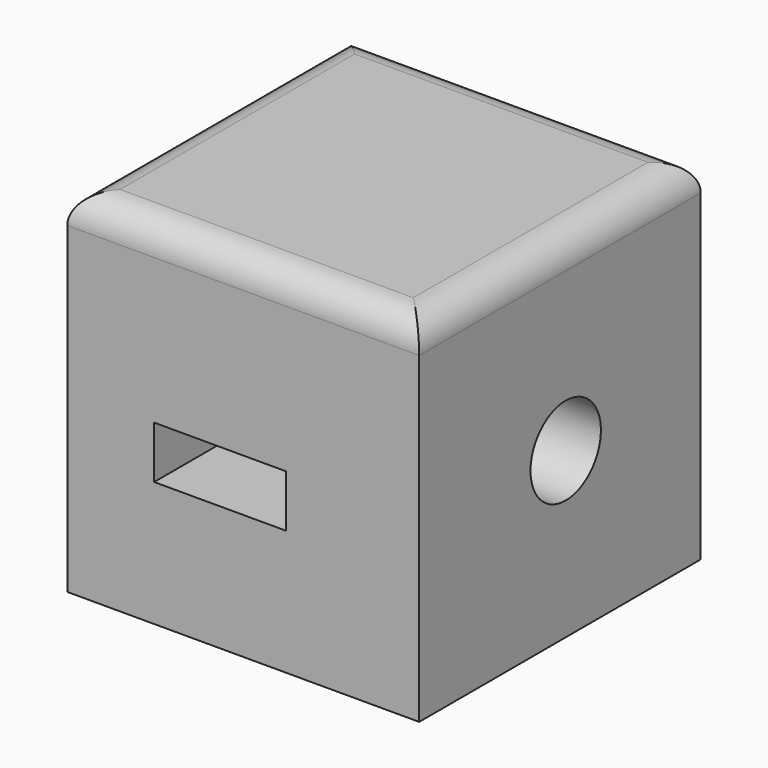
from build123d import *

# Parameters (mm, degrees)
F0_W     = 152.4
F0_H     = 152.4
F1_DEPTH = 152.4
F2_R     = 12.7
F4_D     = 38.1
F5_W     = 57.1246
F5_H     = 22.6568
F6_DEPTH = 152.401


with BuildPart() as f1:
    # F0 (on Front) → F1 (new body)
    with BuildSketch(Plane.XZ):
        with Locations((76.2, 76.2)):
            Rectangle(F0_W, F0_H)
    extrude(amount=F1_DEPTH)

    # F2
    f2_edges = [f1.edges().sort_by_distance(p)[0] for p in [
        (76.2, -152.4, 152.4),
        (0, -76.2, 152.4),
        (76.2, 0, 152.4),
        (152.4, -76.2, 152.4),
    ]]
    fillet(f2_edges, radius=F2_R)

    # F4 (through all)
    with Locations(Plane.YZ.offset(152.4)):
        with Locations((-73.099315, 71.219265)):
            Hole(F4_D / 2)

    # F5 (on face) → F6 (cut, through all)
    with BuildSketch(Plane.XZ.offset(152.4)):
        with Locations((66.187836, 65.461391)):
            Rectangle(F5_W, F5_H)
    extrude(amount=-F6_DEPTH, mode=Mode.SUBTRACT)


solid = f1.part
